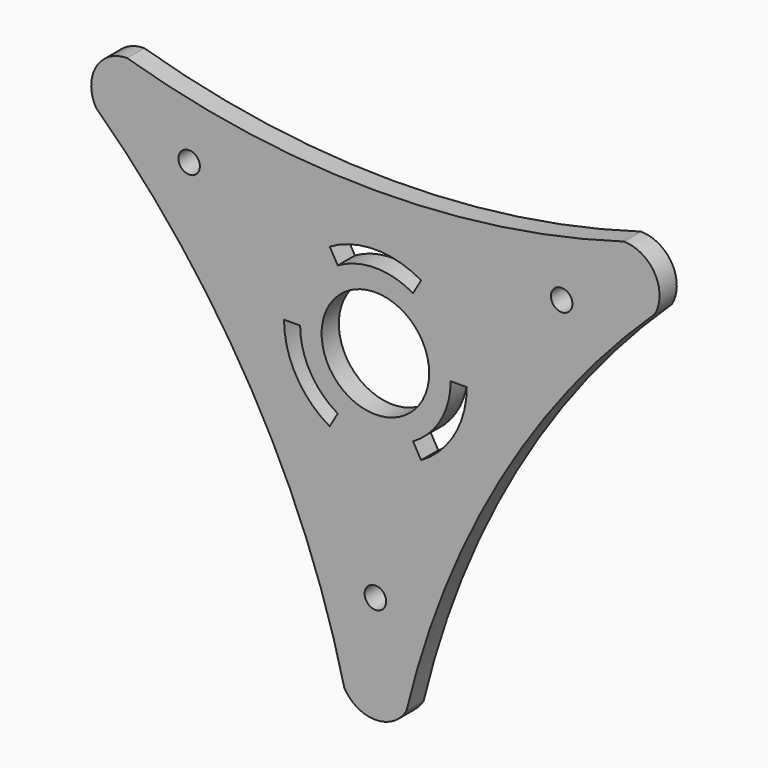
from build123d import *

# Parameters (mm, degrees)
F1_DEPTH = 3
F2_R     = 1.5
F2_R_2   = 7.5
F3_DEPTH = 3.001


with BuildPart() as f1:
    # F0 (on Front) → F1 (new body)
    with BuildSketch(Plane.XZ):
        with BuildLine():
            ThreePointArc((-38.971143, 17.5), (-17.320508, -10), (-4.330127, -42.5))
            ThreePointArc((-4.330127, -42.5), (0, -45), (4.330127, -42.5))
            ThreePointArc((4.330127, -42.5), (17.320508, -10), (38.971143, 17.5))
            ThreePointArc((38.971143, 17.5), (38.971143, 22.5), (34.641016, 25))
            ThreePointArc((34.641016, 25), (0, 20), (-34.641016, 25))
            ThreePointArc((-34.641016, 25), (-38.971143, 22.5), (-38.971143, 17.5))
        make_face()
    extrude(amount=F1_DEPTH)

    # F2 (on face) → F3 (cut, through all)
    with BuildSketch(Plane.XZ.offset(3)):
        with Locations((-25.980762, 15)):
            Circle(F2_R)
        Circle(F2_R_2)
        with Locations((25.980762, 15)):
            Circle(F2_R)
        with Locations((0, -30)):
            Circle(F2_R)
        with BuildLine():
            Line((5.25, 9.093267), (6.375, 11.041824))
            ThreePointArc((6.375, 11.041824), (0, 12.75), (-6.375, 11.041824))
            Line((-6.375, 11.041824), (-5.25, 9.093267))
            ThreePointArc((-5.25, 9.093267), (0, 10.5), (5.25, 9.093267))
        make_face()
        with BuildLine():
            ThreePointArc((6.375, -11.041824), (11.041824, -6.375), (12.75, 0))
            Line((12.75, 0), (10.5, 0))
            ThreePointArc((10.5, 0), (9.093267, -5.25), (5.25, -9.093267))
            Line((5.25, -9.093267), (6.375, -11.041824))
        make_face()
        with BuildLine():
            ThreePointArc((-12.75, 0), (-11.041824, -6.375), (-6.375, -11.041824))
            Line((-6.375, -11.041824), (-5.25, -9.093267))
            ThreePointArc((-5.25, -9.093267), (-9.093267, -5.25), (-10.5, 0))
            Line((-10.5, 0), (-12.75, 0))
        make_face()
    extrude(amount=-F3_DEPTH, mode=Mode.SUBTRACT)


solid = f1.part
